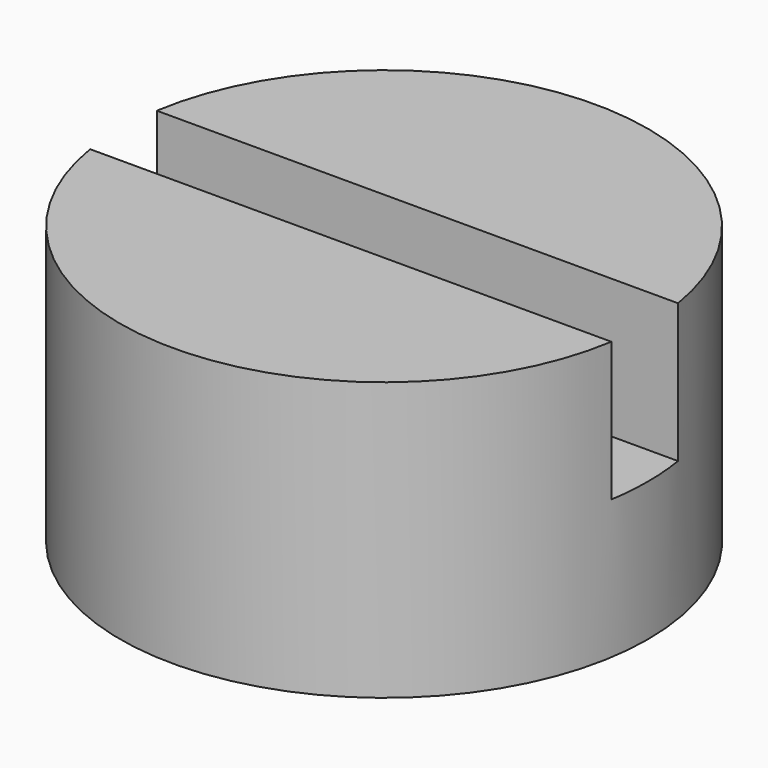
from build123d import *

# Parameters (mm, degrees)
BOX005_W          = 4
BOX005_H          = 0.6
BOX005_DEPTH      = 1
CYLINDER003_R     = 1.9
CYLINDER003_DEPTH = 2


with BuildPart() as cube003:
    # Box005 → Box005 (new body)
    with BuildSketch(Plane(origin=(-2, -0.3, 1), x_dir=(1, 0, 0), z_dir=(0, 0, 1))):
        with Locations((2, 0.3)):
            Rectangle(BOX005_W, BOX005_H)
    extrude(amount=BOX005_DEPTH)


with BuildPart() as cut005:
    # Cylinder003 → Cylinder003 (new body)
    with BuildSketch(Plane.XY):
        Circle(CYLINDER003_R)
    extrude(amount=CYLINDER003_DEPTH)

    # Cut005: cut Cube003
    add(cube003.part, mode=Mode.SUBTRACT)


with BuildPart() as cut005_1:
    # Cut005 placement: moved
    add(cut005.part.moved(Location((3.75, 4.5, 10.5))))


solid = cut005_1.part
